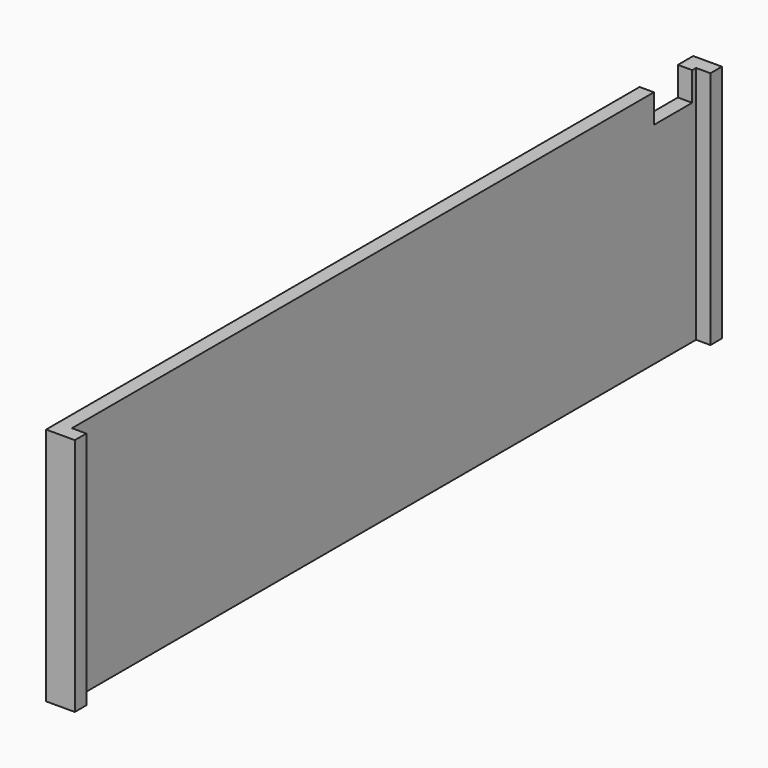
from build123d import *

# Parameters (mm, degrees)
SKETCH102_W      = 5
SKETCH102_H      = 4
EXTRUDE093_DEPTH = 5
EXTRUDE064_DEPTH = 25


with BuildPart() as extrude093:
    # Sketch102 → Extrude093 (new body)
    with BuildSketch(Plane(origin=(-4, 0, 0), x_dir=(0, -1, 0), z_dir=(-1, 0, 0))):
        with Locations((-89, 2)):
            Rectangle(SKETCH102_W, SKETCH102_H)
    extrude(amount=-EXTRUDE093_DEPTH)


with BuildPart() as cut015:
    # Sketch074 → Extrude064 (new body)
    with BuildSketch(Plane.XY.offset(3)):
        Polygon((-3, 93.5), (0, 93.5), (0, 92), (-1.5, 92), (-1.5, 10.5), (0, 10.5), (0, 9), (-3, 9), align=None)
    extrude(amount=-EXTRUDE064_DEPTH)

    # Cut015: cut Extrude093
    add(extrude093.part, mode=Mode.SUBTRACT)


solid = cut015.part
